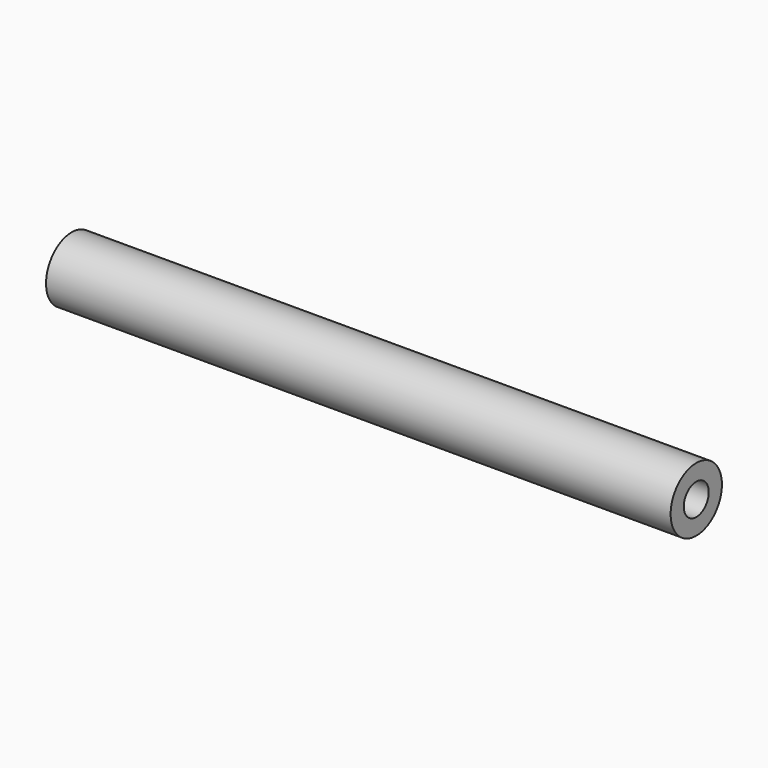
from build123d import *

# Parameters (mm, degrees)
F0_R     = 19.5535243405
F1_DEPTH = 127
F3_D     = 19.05
F4_DEPTH = 254


with BuildPart() as f1:
    # F0 (on Right) → F1 (new body)
    with BuildSketch(Plane.YZ):
        Circle(F0_R)
    extrude(amount=F1_DEPTH)

    # F3 (through all)
    with Locations(Plane.YZ.offset(127)):
        with Locations((0, 0)):
            Hole(F3_D / 2)

    # F4 (add): a face of the model
    f4_faces = [f1.faces().sort_by_distance(p)[0] for p in [
        (127, -19.0004671542, 0),
    ]]
    extrude(f4_faces, amount=F4_DEPTH)


solid = f1.part
